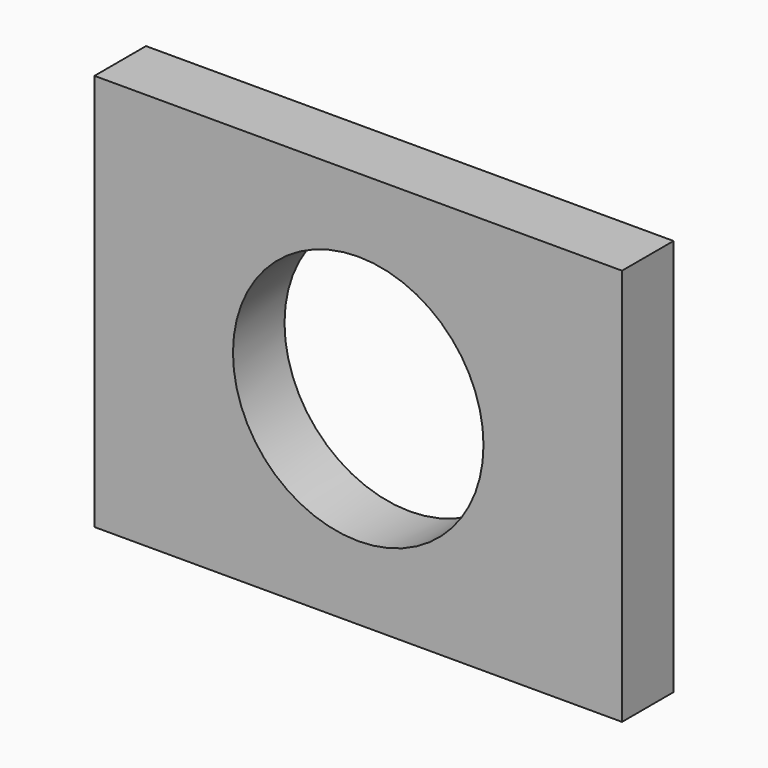
from build123d import *

# Parameters (mm, degrees)
SKETCH_W     = 147.41
SKETCH_H     = 111
PAD_DEPTH    = 18
SKETCH001_R  = 35
POCKET_DEPTH = 18


with BuildPart() as part:
    # Sketch → Pad (new body)
    with BuildSketch(Plane.XZ):
        Rectangle(SKETCH_W, SKETCH_H)
    extrude(amount=PAD_DEPTH)

    # Sketch001 (on Face6 of Pad) → Pocket (cut)
    with BuildSketch(Plane.XZ.offset(18)):
        Circle(SKETCH001_R)
    extrude(amount=-POCKET_DEPTH, mode=Mode.SUBTRACT)


solid = part.part
